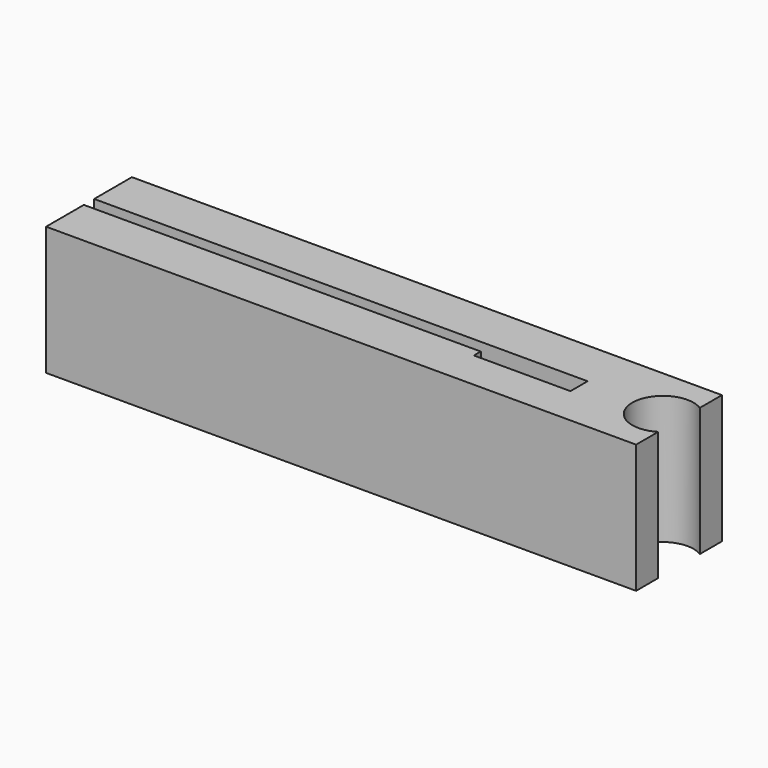
from build123d import *

# Parameters (mm, degrees)
F1_DEPTH = 12


with BuildPart() as f1:
    # F0 (on Top) → F1 (new body)
    with BuildSketch(Plane.XY):
        with BuildLine():
            Line((27.5, 2.423324), (27.5, 5))
            Line((27.5, 5), (-27.5, 5))
            Line((-27.5, 5), (-27.5, 0.6))
            Line((-27.5, 0.6), (18.5, 0.6))
            Line((18.5, 0.6), (18.5, -1.4))
            Line((18.5, -1.4), (10.7, -1.4))
            Line((10.7, -1.4), (9.5, -1.4))
            Line((9.5, -1.4), (9.5, -0.6))
            Line((9.5, -0.6), (8.3, -0.6))
            Line((8.3, -0.6), (-27.5, -0.6))
            Line((-27.5, -0.6), (-27.5, -5))
            Line((-27.5, -5), (27.5, -5))
            Line((27.5, -5), (27.5, -2.423324))
            ThreePointArc((27.5, -2.423324), (23.15, 0), (27.5, 2.423324))
        make_face()
    extrude(amount=F1_DEPTH)


solid = f1.part
